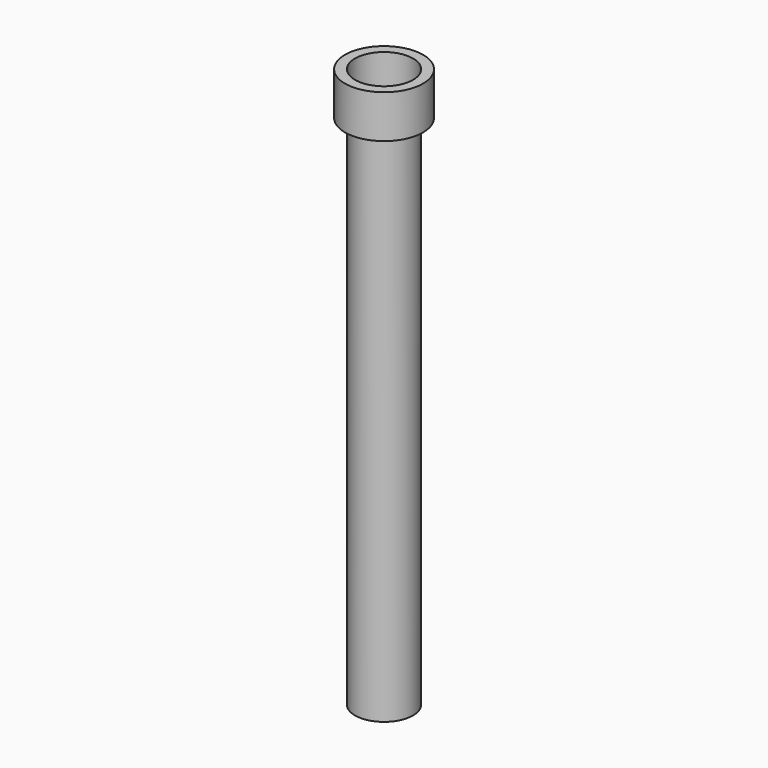
from build123d import *

# Parameters (mm, degrees)
F0_R     = 12.835341098
F1_DEPTH = 114.3
F3_R     = 17.2778356716
F3_R_2   = 12.835341098
F4_DEPTH = 19.05
F5_D     = 12.7
F5_DEPTH = 50.8
F5_TIP   = 3.8154649308


with BuildPart() as f1:
    # F0 (on Top) → F1 (new body, symmetric)
    with BuildSketch(Plane.XY):
        Circle(F0_R)
    extrude(amount=F1_DEPTH, both=True)

    # F5 (one way)
    with BuildSketch(Plane.YZ):
        with Locations((0, 77.132076025)):
            Circle(F5_D / 2)
    extrude(amount=-F5_DEPTH, mode=Mode.SUBTRACT)
    with Locations(Plane.YZ):
        with Locations((0, 77.132076025)):
            with Locations((0, 0, -(F5_DEPTH + F5_TIP / 2))):  # 118° drill point
                Cone(0, F5_D / 2, F5_TIP, mode=Mode.SUBTRACT)


with BuildPart() as f4:
    # F3 (on face) → F4 (new body)
    with BuildSketch(Plane.XY.offset(114.3)):
        Circle(F3_R)
        Circle(F3_R_2, mode=Mode.SUBTRACT)
    extrude(amount=F4_DEPTH)


solid = Compound([f1.part, f4.part])
